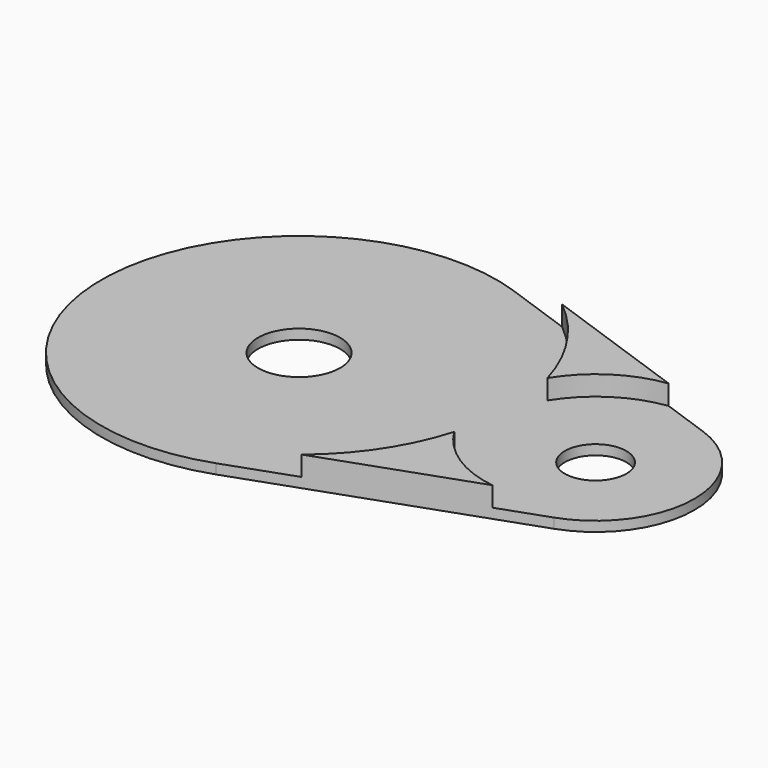
from build123d import *

# Parameters (mm, degrees)
EXTRUDE009_DEPTH = 4
SKETCH002_R      = 8.31
SKETCH002_R_2    = 6.23
EXTRUDE002_DEPTH = 2


with BuildPart() as obj1:
    # Sketch012 (on Face8 of Extrude002) → Extrude009 (new body)
    with BuildSketch(Plane.XY.offset(2)):
        with BuildLine():
            ThreePointArc((26.8733973411, -32.9252261245), (35.4651440174, -23.4195123738), (40.8333333333, -11.7851130198))
            ThreePointArc((40.8333333333, -11.7851130198), (47.7113101314, -18.8477611751), (56.9484135086, -22.2921021863))
            Line((56.9484135086, -22.2921021863), (26.8733973411, -32.9252261245))
        make_face()
        with BuildLine():
            ThreePointArc((56.9484135086, 22.2921021863), (47.7113101314, 18.8477611751), (40.8333333333, 11.7851130198))
            ThreePointArc((40.8333333333, 11.7851130198), (35.4651440174, 23.4195123738), (26.8733973411, 32.9252261245))
            Line((56.9484135086, 22.2921021863), (26.8733973411, 32.9252261245))
        make_face()
    extrude(amount=EXTRUDE009_DEPTH)


with BuildPart() as base001:
    # Sketch002 → Extrude002 (new body)
    with BuildSketch(Plane.XY):
        with BuildLine():
            ThreePointArc((13.3333333333, 37.7123616633), (-40, 0), (13.3333333333, -37.7123616633))
            Line((66.6666666667, -18.8561808316), (13.3333333333, -37.7123616633))
            ThreePointArc((66.6666666667, -18.8561808316), (80, 0), (66.6666666667, 18.8561808316))
            Line((13.3333333333, 37.7123616633), (66.6666666667, 18.8561808316))
        make_face()
        Circle(SKETCH002_R, mode=Mode.SUBTRACT)
        with Locations((60, 0)):
            Circle(SKETCH002_R_2, mode=Mode.SUBTRACT)
    extrude(amount=EXTRUDE002_DEPTH)

    # Fusion002: union obj1
    add(obj1.part)


solid = base001.part
